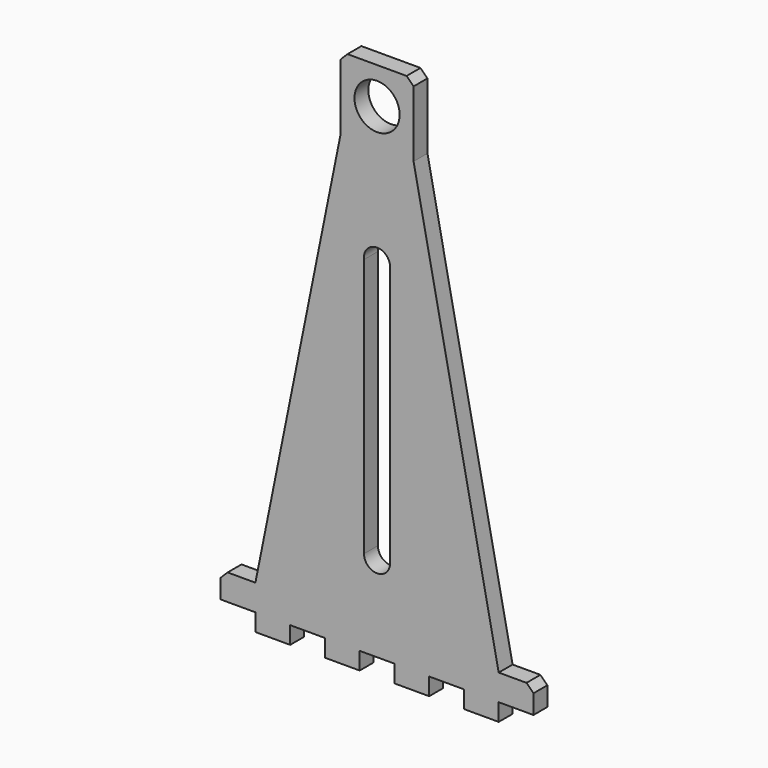
from build123d import *

# Parameters (mm, degrees)
F0_R     = 13
F1_DEPTH = 10
F2_SIZE  = 4
F3_SIZE  = 4
F5_D     = 5
F5_DEPTH = 8
F5_TIP   = 1.5021515476


with BuildPart() as f1:
    # F0 (on Front) → F1 (new body)
    with BuildSketch(Plane.XZ):
        Polygon((-10, 0), (0, 0), (10, 0), (10, -10), (30, -10), (30, 0), (50, 0), (50, -10), (70, -10), (70, 0), (90, 0), (90, 15), (70, 15), (21, 258), (21, 300), (0, 300), (-21, 300), (-21, 258), (-70, 15), (-90, 15), (-90, 0), (-70, 0), (-70, -10), (-50, -10), (-50, 0), (-30, 0), (-30, -10), (-10, -10), align=None)
        with BuildLine():
            ThreePointArc((7.5, 50), (0, 42.5), (-7.5, 50))
            Line((-7.5, 50), (-7.5, 199.0483840028))
            ThreePointArc((-7.5, 199.0483840028), (0, 207.5601304887), (7.5, 199.0483840028))
            Line((7.5, 199.0483840028), (7.5, 50))
        make_face(mode=Mode.SUBTRACT)
        with Locations((0, 279)):
            Circle(F0_R, mode=Mode.SUBTRACT)
    extrude(amount=F1_DEPTH)

    # F2
    f2_edges = [f1.edges().sort_by_distance(p)[0] for p in [
        (21, -5, 300),
        (-21, -5, 300),
    ]]
    chamfer(f2_edges, length=F2_SIZE)

    # F3
    f3_edges = [f1.edges().sort_by_distance(p)[0] for p in [
        (-90, -5, 15),
        (90, -5, 15),
    ]]
    chamfer(f3_edges, length=F3_SIZE)

    # F5
    with Locations(Plane(origin=(0, 0, 0), x_dir=(1, 0, 0), z_dir=(0, 0, -1))):
        with Locations((-80, 5), (80, 5)):
            Hole(F5_D / 2, depth=F5_DEPTH)
            with Locations((0, 0, -(F5_DEPTH + F5_TIP / 2))):  # 118° drill point
                Cone(0, F5_D / 2, F5_TIP, mode=Mode.SUBTRACT)


solid = f1.part
